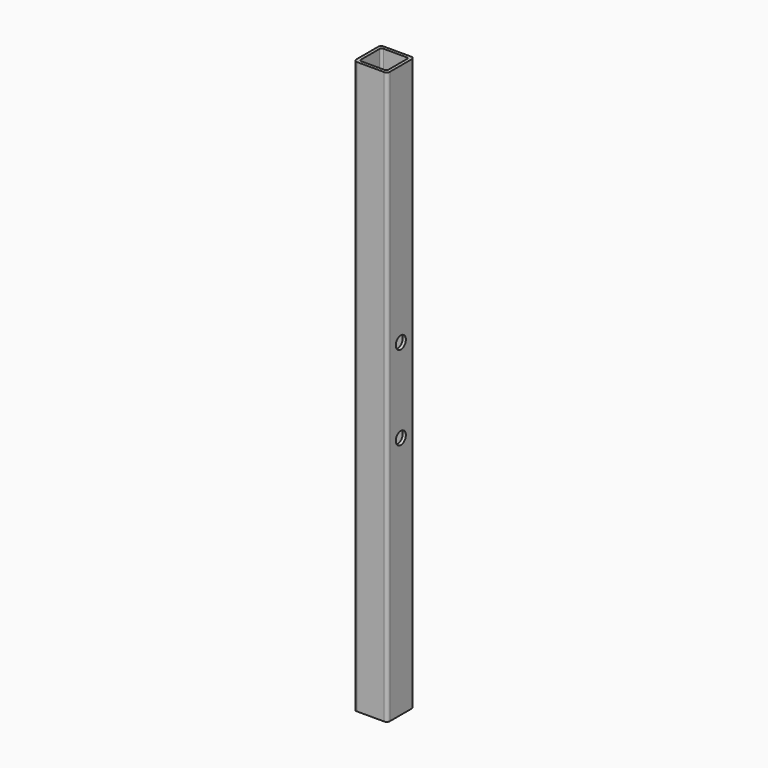
from build123d import *

# Parameters (mm, degrees)
F1_DEPTH = 431.8
F3_D     = 9.525


with BuildPart() as f1:
    # F0 (on Top) → F1 (new body)
    with BuildSketch(Plane.XY):
        with BuildLine():
            ThreePointArc((-10.3378, 12.7), (-12.008128, 12.008128), (-12.7, 10.3378))
            Line((-12.7, 10.3378), (-12.7, -10.3378))
            ThreePointArc((-12.7, -10.3378), (-12.008128, -12.008128), (-10.3378, -12.7))
            Line((-10.3378, -12.7), (10.3378, -12.7))
            ThreePointArc((10.3378, -12.7), (12.008128, -12.008128), (12.7, -10.3378))
            Line((12.7, -10.3378), (12.7, 10.3378))
            ThreePointArc((12.7, 10.3378), (12.008128, 12.008128), (10.3378, 12.7))
            Line((10.3378, 12.7), (-10.3378, 12.7))
        make_face()
        with BuildLine():
            Line((-8.8138, 10.3378), (8.8138, 10.3378))
            ThreePointArc((8.8138, 10.3378), (9.891431, 9.891431), (10.3378, 8.8138))
            Line((10.3378, 8.8138), (10.3378, -8.8138))
            ThreePointArc((10.3378, -8.8138), (9.891431, -9.891431), (8.8138, -10.3378))
            Line((8.8138, -10.3378), (-8.8138, -10.3378))
            ThreePointArc((-8.8138, -10.3378), (-9.891431, -9.891431), (-10.3378, -8.8138))
            Line((-10.3378, -8.8138), (-10.3378, 8.8138))
            ThreePointArc((-10.3378, 8.8138), (-9.891431, 9.891431), (-8.8138, 10.3378))
        make_face(mode=Mode.SUBTRACT)
    extrude(amount=F1_DEPTH)

    # F3 (through all)
    with Locations(Plane.YZ.offset(12.7)):
        with Locations((0, 247.65), (0, 184.15)):
            Hole(F3_D / 2)


solid = f1.part
